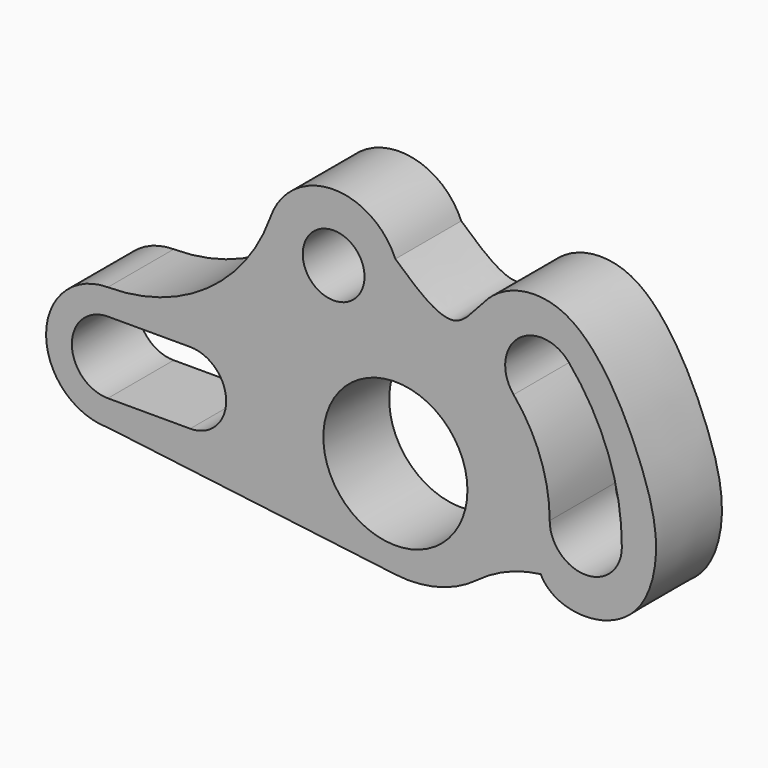
from build123d import *

# Parameters (mm, degrees)
F0_R     = 9.525
F0_R_2   = 22.225
F1_DEPTH = 25.4


with BuildPart() as f1:
    # F0 (on Front) → F1 (new body)
    with BuildSketch(Plane.XZ):
        with BuildLine():
            ThreePointArc((-38.6019731115, 54.2300551624), (-22.396831424, 27.2606899044), (1.5875, 47.625))
            ThreePointArc((1.5875, 47.625), (1.1867336946, 51.6723467389), (0, 55.5625))
            ThreePointArc((0, 55.5625), (-19.7619315715, 68.2502165973), (-38.6019731115, 54.2300551624))
        make_face()
        with Locations((-19.05, 47.625)):
            Circle(F0_R, mode=Mode.SUBTRACT)
        with BuildLine():
            ThreePointArc((0, 55.5625), (1.1867336946, 51.6723467389), (1.5875, 47.625))
            ThreePointArc((1.5875, 47.625), (-22.396831424, 27.2606899044), (-38.6019731115, 54.2300551624))
            ThreePointArc((-38.6019731115, 54.2300551624), (-58.0899055062, 28.7235749355), (-88.6968, 19.05))
            Line((-88.6968, 19.05), (-63.2968, 19.05))
            ThreePointArc((-63.2968, 19.05), (-44.2468, 0), (-63.2968, -19.05))
            Line((-63.2968, -19.05), (-88.6968, -19.05))
            Line((-88.6968, -19.05), (0, -30.0997427003))
            ThreePointArc((0, -30.0997427003), (13.3055232241, -29.1913004245), (25.3004375845, -23.3616996557))
            ThreePointArc((25.3004375845, -23.3616996557), (34.556419149, -18.121015748), (44.8448620737, -15.4217742383))
            add(Edge.make_bspline(
                [(0, 55.5625), (5.8780273416, 50.2801245956), (19.2026785126, 38.301419748), (28.7757522314, 59.2322407386), (57.387469548, 63.2305309097), (77.6342462092, 23.706494508), (82.1484389365, 0.9679475703), (75.5829510629, -18.1051792077), (58.2641102959, -24.6551147398), (47.0923191994, -20.1232447624), (44.8448620737, -15.4217742383)],
                knots=[0, 0, 0, 0, 0.1242826422, 0.2350424379, 0.3641785745, 0.537193634, 0.6702619569, 0.784307144, 0.8952894715, 1, 1, 1, 1], degree=3))
        make_face()
        Circle(F0_R_2, mode=Mode.SUBTRACT)
        with BuildLine():
            ThreePointArc((69.85, 0), (58.7248, -11.1252), (47.5996, 0))
            ThreePointArc((47.5996, 0), (44.7289928724, 16.2800220142), (36.4634090747, 30.596433106))
            ThreePointArc((36.4634090747, 30.596433106), (37.8056832531, 46.245567828), (53.4592985247, 44.9565967483))
            ThreePointArc((53.4592985247, 44.9565967483), (65.6908180691, 23.9498429927), (69.85, 0))
        make_face(mode=Mode.SUBTRACT)
        with BuildLine():
            Line((-63.2968, 19.05), (-88.6968, 19.05))
            ThreePointArc((-88.6968, 19.05), (-107.7468, 0), (-88.6968, -19.05))
            Line((-88.6968, -19.05), (-63.2968, -19.05))
            ThreePointArc((-63.2968, -19.05), (-44.2468, 0), (-63.2968, 19.05))
        make_face()
        with BuildLine():
            Line((-88.6968, 11.0998), (-63.2968, 11.0998))
            ThreePointArc((-63.2968, 11.0998), (-52.197, 0), (-63.2968, -11.0998))
            Line((-63.2968, -11.0998), (-88.6968, -11.0998))
            ThreePointArc((-88.6968, -11.0998), (-99.7966, 0), (-88.6968, 11.0998))
        make_face(mode=Mode.SUBTRACT)
    extrude(amount=F1_DEPTH)


solid = f1.part
